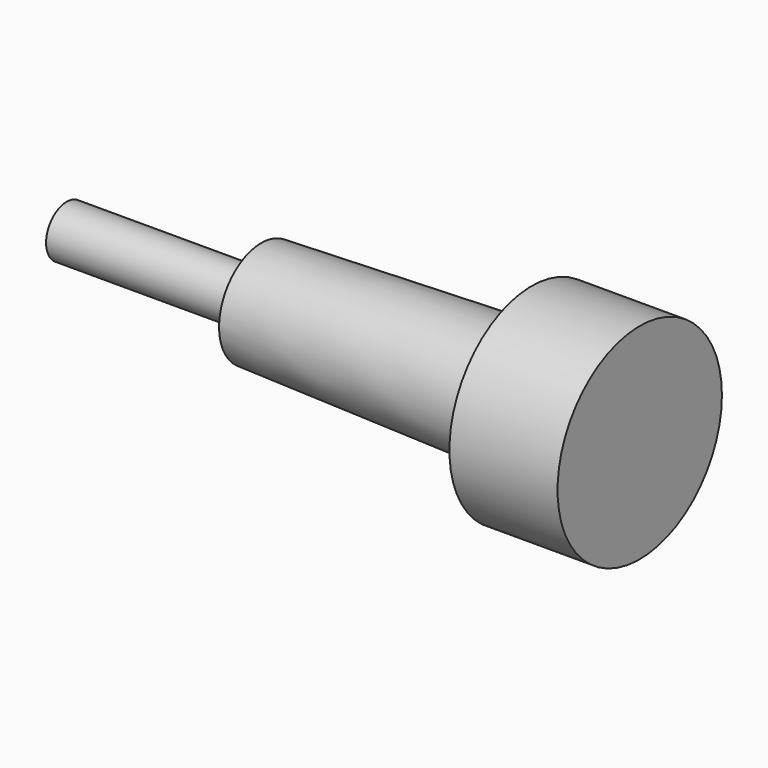
from build123d import *

# Parameters (mm, degrees)
F0_R     = 4.953
F2_R     = 5.715
F4_R     = 2.413
F5_DEPTH = 18.288
F6_R     = 9.652
F6_R_2   = 5.715
F7_DEPTH = 10.16


with BuildPart() as f3:
    # F0 (on Right) → F3 section 0
    with BuildSketch(Plane.YZ):
        Circle(F0_R)
    # F2 (on offset) → F3 section 1
    with BuildSketch(Plane.YZ.offset(25.4)):
        Circle(F2_R)
    loft()

    # F4 (on face) → F5 (join)
    with BuildSketch(Plane(origin=(0, 0, 0), x_dir=(0, -1, 0), z_dir=(-1, 0, 0))):
        Circle(F4_R)
    extrude(amount=F5_DEPTH)

    # F6 (on face) → F7 (join)
    with BuildSketch(Plane.YZ.offset(25.4)):
        Circle(F6_R)
        Circle(F6_R_2, mode=Mode.SUBTRACT)
        Circle(F6_R_2)
    extrude(amount=F7_DEPTH)


solid = f3.part
